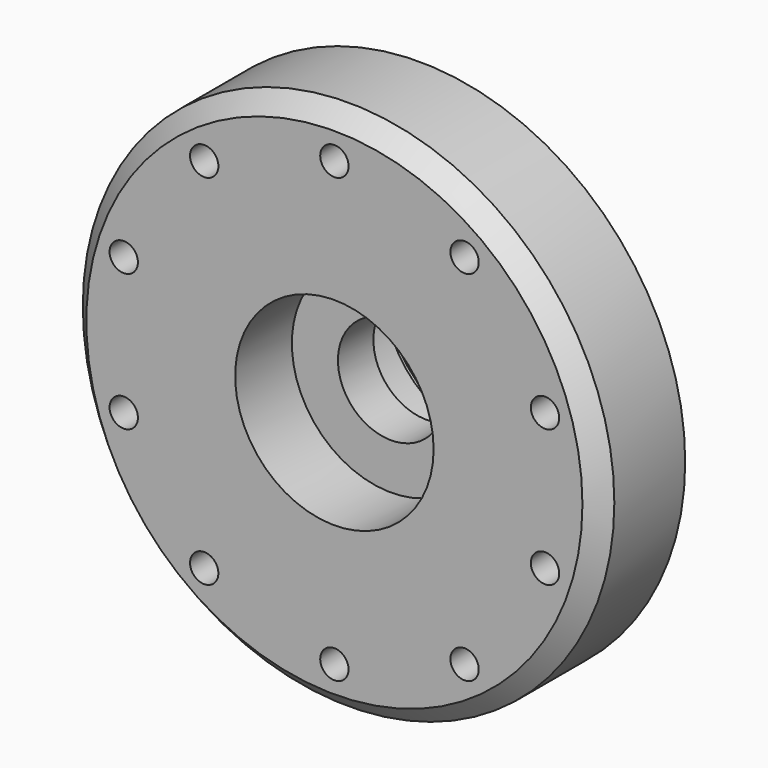
from build123d import *

# Parameters (mm, degrees)
CYLINDER139_R              = 8.5
CYLINDER139_DEPTH          = 3
CYLINDER138_R              = 10
CYLINDER138_DEPTH          = 3
CYLINDER133_R              = 0.8
CYLINDER133_DEPTH          = 20
CYLINDER130_R              = 0.8
CYLINDER130_DEPTH          = 20
FUSION113_PLACEMENT_ANGLE  = 54
CYLINDER135_R              = 0.8
CYLINDER135_DEPTH          = 20
CYLINDER134_R              = 0.8
CYLINDER134_DEPTH          = 20
FUSION115_PLACEMENT_ANGLE  = 162
CYLINDER137_R              = 0.8
CYLINDER137_DEPTH          = 20
CYLINDER136_R              = 0.8
CYLINDER136_DEPTH          = 20
FUSION117_PLACEMENT_ANGLE  = 126
CYLINDER129_R              = 0.8
CYLINDER129_DEPTH          = 20
CYLINDER128_R              = 0.8
CYLINDER128_DEPTH          = 20
FUSION118_PLACEMENT_ANGLE  = 90
CYLINDER131_R              = 0.8
CYLINDER131_DEPTH          = 20
CYLINDER127_R              = 0.8
CYLINDER127_DEPTH          = 20
FUSION114_PLACEMENT_ANGLE  = 18
CYLINDER126_R              = 3
CYLINDER126_DEPTH          = 4
CYLINDER125_R              = 5.6
CYLINDER125_DEPTH          = 4
CYLINDER124_R              = 5.6
CYLINDER124_DEPTH          = 4
CYLINDER123_R              = 7
CYLINDER123_DEPTH          = 1.5
CYLINDER132_R              = 10
CYLINDER132_DEPTH          = 6
CYLINDER122_R              = 15
CYLINDER122_DEPTH          = 6
CHAMFER007_SIZE            = 1
CHAMFER007_PLACEMENT_ANGLE = 90


with BuildPart() as cylinder139:
    # Cylinder139 → Cylinder139 (new body)
    with BuildSketch(Plane.XY.offset(11)):
        Circle(CYLINDER139_R)
    extrude(amount=CYLINDER139_DEPTH)


with BuildPart() as cut043:
    # Cylinder138 → Cylinder138 (new body)
    with BuildSketch(Plane.XY.offset(11)):
        Circle(CYLINDER138_R)
    extrude(amount=CYLINDER138_DEPTH)

    # Cut043: cut Cylinder139
    add(cylinder139.part, mode=Mode.SUBTRACT)


with BuildPart() as cylinder133:
    # Cylinder133 → Cylinder133 (new body)
    with BuildSketch(Plane(origin=(-12.5, 0, 13), x_dir=(1, 0, 0), z_dir=(0, 0, 1))):
        Circle(CYLINDER133_R)
    extrude(amount=CYLINDER133_DEPTH)


with BuildPart() as fusion113:
    # Cylinder130 → Cylinder130 (new body)
    with BuildSketch(Plane(origin=(12.5, 0, 13), x_dir=(1, 0, 0), z_dir=(0, 0, 1))):
        Circle(CYLINDER130_R)
    extrude(amount=CYLINDER130_DEPTH)

    # Fusion113: union Cylinder133
    add(cylinder133.part)


with BuildPart() as fusion113_1:
    # Fusion113 placement: moved
    add(fusion113.part.rotate(Axis((0, 0, 0), (0, 0, 1)), FUSION113_PLACEMENT_ANGLE))


with BuildPart() as cylinder135:
    # Cylinder135 → Cylinder135 (new body)
    with BuildSketch(Plane(origin=(-12.5, 0, 13), x_dir=(1, 0, 0), z_dir=(0, 0, 1))):
        Circle(CYLINDER135_R)
    extrude(amount=CYLINDER135_DEPTH)


with BuildPart() as fusion115:
    # Cylinder134 → Cylinder134 (new body)
    with BuildSketch(Plane(origin=(12.5, 0, 13), x_dir=(1, 0, 0), z_dir=(0, 0, 1))):
        Circle(CYLINDER134_R)
    extrude(amount=CYLINDER134_DEPTH)

    # Fusion115: union Cylinder135
    add(cylinder135.part)


with BuildPart() as fusion115_1:
    # Fusion115 placement: moved
    add(fusion115.part.rotate(Axis((0, 0, 0), (0, 0, 1)), FUSION115_PLACEMENT_ANGLE))


with BuildPart() as cylinder137:
    # Cylinder137 → Cylinder137 (new body)
    with BuildSketch(Plane(origin=(-12.5, 0, 13), x_dir=(1, 0, 0), z_dir=(0, 0, 1))):
        Circle(CYLINDER137_R)
    extrude(amount=CYLINDER137_DEPTH)


with BuildPart() as fusion117:
    # Cylinder136 → Cylinder136 (new body)
    with BuildSketch(Plane(origin=(12.5, 0, 13), x_dir=(1, 0, 0), z_dir=(0, 0, 1))):
        Circle(CYLINDER136_R)
    extrude(amount=CYLINDER136_DEPTH)

    # Fusion117: union Cylinder137
    add(cylinder137.part)


with BuildPart() as fusion117_1:
    # Fusion117 placement: moved
    add(fusion117.part.rotate(Axis((0, 0, 0), (0, 0, 1)), FUSION117_PLACEMENT_ANGLE))


with BuildPart() as cylinder129:
    # Cylinder129 → Cylinder129 (new body)
    with BuildSketch(Plane(origin=(-12.5, 0, 13), x_dir=(1, 0, 0), z_dir=(0, 0, 1))):
        Circle(CYLINDER129_R)
    extrude(amount=CYLINDER129_DEPTH)


with BuildPart() as fusion118:
    # Cylinder128 → Cylinder128 (new body)
    with BuildSketch(Plane(origin=(12.5, 0, 13), x_dir=(1, 0, 0), z_dir=(0, 0, 1))):
        Circle(CYLINDER128_R)
    extrude(amount=CYLINDER128_DEPTH)

    # Fusion118: union Cylinder129
    add(cylinder129.part)


with BuildPart() as fusion118_1:
    # Fusion118 placement: moved
    add(fusion118.part.rotate(Axis((0, 0, 0), (0, 0, 1)), FUSION118_PLACEMENT_ANGLE))


with BuildPart() as cylinder131:
    # Cylinder131 → Cylinder131 (new body)
    with BuildSketch(Plane(origin=(-12.5, 0, 13), x_dir=(1, 0, 0), z_dir=(0, 0, 1))):
        Circle(CYLINDER131_R)
    extrude(amount=CYLINDER131_DEPTH)


with BuildPart() as fusion119:
    # Cylinder127 → Cylinder127 (new body)
    with BuildSketch(Plane(origin=(12.5, 0, 13), x_dir=(1, 0, 0), z_dir=(0, 0, 1))):
        Circle(CYLINDER127_R)
    extrude(amount=CYLINDER127_DEPTH)

    # Fusion114: union Cylinder131
    add(cylinder131.part)


with BuildPart() as fusion119_1:
    # Fusion114 placement: moved
    add(fusion119.part.rotate(Axis((0, 0, 0), (0, 0, 1)), FUSION114_PLACEMENT_ANGLE))

    # Fusion119: union Fusion113, Fusion115, Fusion117, Fusion118
    add(fusion113_1.part)
    add(fusion115_1.part)
    add(fusion117_1.part)
    add(fusion118_1.part)


with BuildPart() as fusion119_2:
    # Fusion119 placement: moved
    add(fusion119_1.part.moved(Location((0, 0, 3))))


with BuildPart() as cylinder126:
    # Cylinder126 → Cylinder126 (new body)
    with BuildSketch(Plane.XY.offset(3)):
        Circle(CYLINDER126_R)
    extrude(amount=CYLINDER126_DEPTH)


with BuildPart() as cylinder125:
    # Cylinder125 → Cylinder125 (new body)
    with BuildSketch(Plane.XY):
        Circle(CYLINDER125_R)
    extrude(amount=CYLINDER125_DEPTH)


with BuildPart() as fusion116:
    # Cylinder124 → Cylinder124 (new body)
    with BuildSketch(Plane.XY.offset(6.5)):
        Circle(CYLINDER124_R)
    extrude(amount=CYLINDER124_DEPTH)

    # Fusion116: union Cylinder126, Cylinder125
    add(cylinder126.part)
    add(cylinder125.part)


with BuildPart() as fusion116_1:
    # Fusion116 placement: moved
    add(fusion116.part.moved(Location((0, 0, 4.5))))


with BuildPart() as cylinder123:
    # Cylinder123 → Cylinder123 (new body)
    with BuildSketch(Plane.XY.offset(3)):
        Circle(CYLINDER123_R)
    extrude(amount=CYLINDER123_DEPTH)


with BuildPart() as cylinder132:
    # Cylinder132 → Cylinder132 (new body)
    with BuildSketch(Plane.XY.offset(3)):
        Circle(CYLINDER132_R)
    extrude(amount=CYLINDER132_DEPTH)


with BuildPart() as hub_wide_right:
    # Cylinder122 → Cylinder122 (new body)
    with BuildSketch(Plane.XY.offset(9)):
        Circle(CYLINDER122_R)
    extrude(amount=CYLINDER122_DEPTH)

    # Fusion120: union Cylinder132
    add(cylinder132.part)

    # Cut040: cut Cylinder123
    add(cylinder123.part, mode=Mode.SUBTRACT)

    # Cut041: cut Fusion116
    add(fusion116_1.part, mode=Mode.SUBTRACT)


with BuildPart() as hub_wide_right_1:
    # Cut041 placement: moved
    add(hub_wide_right.part.moved(Location((0, 0, 8))))

    # Cut042: cut Fusion119
    add(fusion119_2.part, mode=Mode.SUBTRACT)

    # Cut044: cut Cut043
    add(cut043.part, mode=Mode.SUBTRACT)

    # Chamfer007
    chamfer007_edges = [hub_wide_right_1.edges().sort_by_distance(p)[0] for p in [
        (-15, 0, 23),
    ]]
    chamfer(chamfer007_edges, length=CHAMFER007_SIZE)


with BuildPart() as hub_wide_right_2:
    # Chamfer007 placement: moved
    add(hub_wide_right_1.part.moved(Location((0, 88, 0))).rotate(Axis((0, 88, 0), (1, 0, 0)), CHAMFER007_PLACEMENT_ANGLE))


solid = hub_wide_right_2.part
